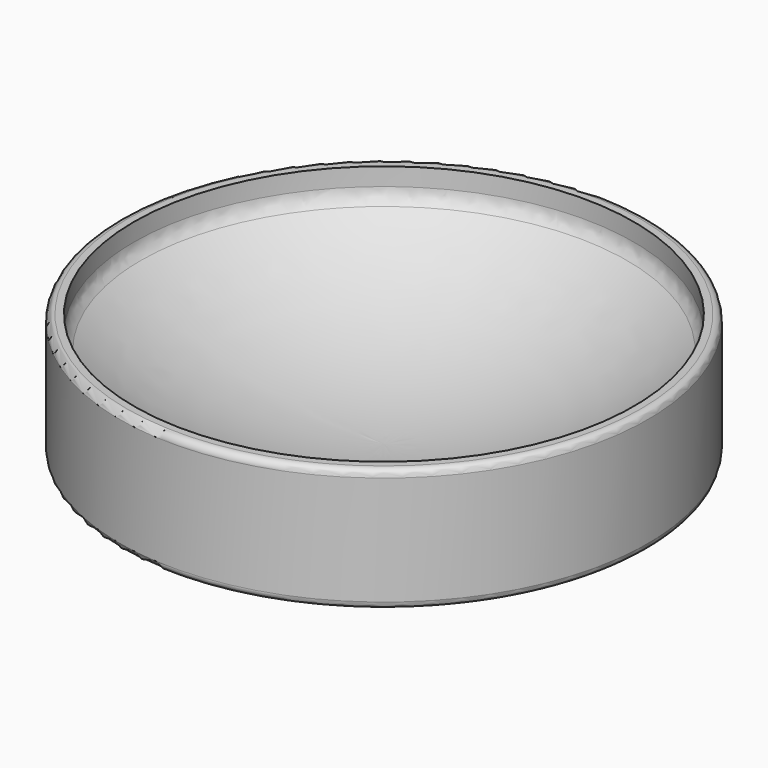
from build123d import *

# Parameters (mm, degrees)
F2_R = 0.4
F3_R = 0.4
F4_R = 1


with BuildPart() as f1:
    # F0 (on Front) → F1 (revolve)
    with BuildSketch(Plane.XZ):
        with BuildLine():
            Line((-15, 7), (-15, 0))
            Line((-15, 0), (0, 0))
            Line((0, 0), (0, 0.5))
            ThreePointArc((0, 0.5), (-7.527284, 1.786514), (-14.2, 5.5))
            Line((-14.2, 5.5), (-14.2, 7))
            Line((-14.2, 7), (-15, 7))
        make_face()
    revolve(axis=Axis((0, 0, 0.25), (0, 0, -1)))

    # F2
    f2_edges = [f1.edges().sort_by_distance(p)[0] for p in [
        (15, 0, 7),
    ]]
    fillet(f2_edges, radius=F2_R)

    # F3
    f3_edges = [f1.edges().sort_by_distance(p)[0] for p in [
        (15, 0, 0),
    ]]
    fillet(f3_edges, radius=F3_R)

    # F4
    f4_edges = [f1.edges().sort_by_distance(p)[0] for p in [
        (14.2, 0, 5.5),
    ]]
    fillet(f4_edges, radius=F4_R)


solid = f1.part
